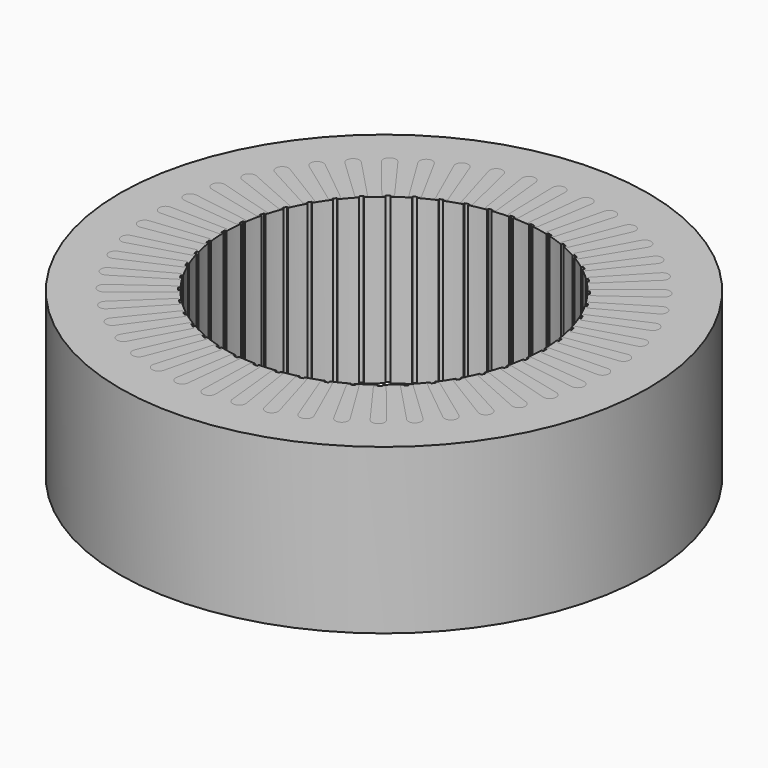
from build123d import *

# Parameters (mm, degrees)
SKETCH006_R           = 134.5
SKETCH006_R_2         = 80.965
PAD003_DEPTH          = 83.6
POCKET001_DEPTH       = 862.602823
POLARPATTERN001_COUNT = 48
SKETCH_R              = 134.5
SKETCH_R_2            = 80.965
PAD_DEPTH             = 83.6
POCKET_DEPTH          = 862.602823
POLARPATTERN_COUNT    = 48
PAD001_DEPTH          = 83.6
SKETCH005_R           = 134.5
SKETCH005_R_2         = 81.965
PAD002_DEPTH          = 83.6


with BuildPart() as stator001:
    # Sketch006 → Pad003 (new body)
    with BuildSketch(Plane.XY):
        Circle(SKETCH006_R)
        Circle(SKETCH006_R_2, mode=Mode.SUBTRACT)
    extrude(amount=PAD003_DEPTH)

    # CopySketch006 → Pocket001 (cut, through all)
    with BuildSketch(Plane(origin=(0, 0, 0), x_dir=(1, 0, 0), z_dir=(0, 0, -1))):
        with BuildLine():
            Line((80.9589, 1), (81.9589, 1))
            ThreePointArc((81.9589, 1), (81.945997, 1.7649), (81.925955, 2.529645))
            Line((81.925955, 2.529645), (111.25623, 3.285))
            ThreePointArc((111.25623, -3.285), (114.54123, 0), (111.25623, 3.285))
            Line((81.925955, -2.529645), (111.25623, -3.285))
            ThreePointArc((81.925955, -2.529645), (81.945997, -1.7649), (81.9589, -1))
            Line((81.9589, -1), (80.9589, -1))
            Line((80.9589, 1), (80.9589, -1))
        make_face()
    pocket001 = extrude(amount=-POCKET001_DEPTH, mode=Mode.SUBTRACT)

    # PolarPattern001: Pocket001 ×48 about axis
    polarpattern001_axis = Axis((0, 0, 0), (0, 0, -1))
    for i in range(1, POLARPATTERN001_COUNT):
        add(pocket001.rotate(polarpattern001_axis, i * 360 / POLARPATTERN001_COUNT), mode=Mode.SUBTRACT)


with BuildPart() as stator:
    # Sketch → Pad (new body)
    with BuildSketch(Plane.XY):
        Circle(SKETCH_R)
        Circle(SKETCH_R_2, mode=Mode.SUBTRACT)
    extrude(amount=PAD_DEPTH)

    # CopySketch003 → Pocket (cut, through all)
    with BuildSketch(Plane(origin=(0, 0, 0), x_dir=(1, 0, 0), z_dir=(0, 0, -1))):
        with BuildLine():
            Line((80.9589, 1), (81.9589, 1))
            ThreePointArc((81.9589, 1), (81.945997, 1.7649), (81.925955, 2.529645))
            Line((81.925955, 2.529645), (111.25623, 3.285))
            ThreePointArc((111.25623, -3.285), (114.54123, 0), (111.25623, 3.285))
            Line((81.925955, -2.529645), (111.25623, -3.285))
            ThreePointArc((81.925955, -2.529645), (81.945997, -1.7649), (81.9589, -1))
            Line((81.9589, -1), (80.9589, -1))
            Line((80.9589, 1), (80.9589, -1))
        make_face()
    pocket = extrude(amount=-POCKET_DEPTH, mode=Mode.SUBTRACT)

    # PolarPattern: Pocket ×48 about axis
    polarpattern_axis = Axis((0, 0, 0), (0, 0, -1))
    for i in range(1, POLARPATTERN_COUNT):
        add(pocket.rotate(polarpattern_axis, i * 360 / POLARPATTERN_COUNT), mode=Mode.SUBTRACT)


with BuildPart() as cut:
    # CopySketch005 → Pad001 (new body)
    with BuildSketch(Plane.XY):
        with BuildLine():
            ThreePointArc((81.925955, -2.529645), (81.945997, -1.7649), (81.9589, -1))
            Line((81.9589, 1), (81.9589, -1))
            ThreePointArc((81.9589, 1), (81.945997, 1.7649), (81.925955, 2.529645))
            Line((81.925955, 2.529645), (111.25623, 3.285))
            ThreePointArc((111.25623, -3.285), (114.54123, 0), (111.25623, 3.285))
            Line((81.925955, -2.529645), (111.25623, -3.285))
        make_face()
    extrude(amount=PAD001_DEPTH)

    # Sketch005 → Pad002 (join)
    with BuildSketch(Plane.XY):
        Circle(SKETCH005_R)
        Circle(SKETCH005_R_2, mode=Mode.SUBTRACT)
    extrude(amount=PAD002_DEPTH)

    # Cut: cut Stator
    add(stator.part, mode=Mode.SUBTRACT)


solid = Compound([stator001.part, cut.part])
